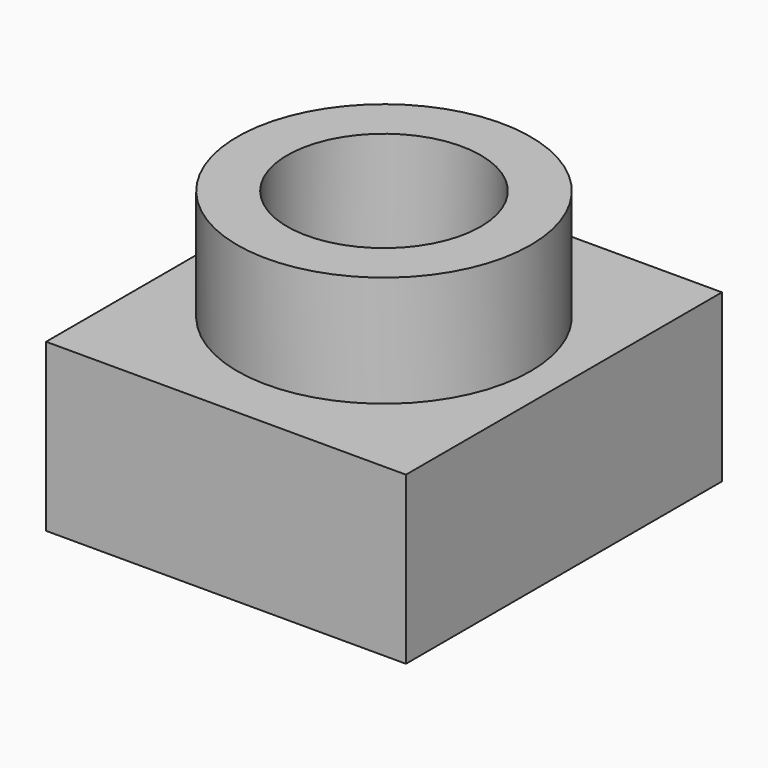
from build123d import *

# Parameters (mm, degrees)
F0_W      = 82.344018
F0_H      = 90.373024
F1_DEPTH  = 38.1
F2_R      = 33.560103
F2_R_2    = 22.134941
F3_DEPTH  = 25.4
F3_FACE_R = 22.134941
F4_DEPTH  = 127


with BuildPart() as f1:
    # F0 (on Top) → F1 (new body)
    with BuildSketch(Plane.XY):
        Rectangle(F0_W, F0_H)
    extrude(amount=F1_DEPTH)

    # F2 (on face) → F3 (join)
    with BuildSketch(Plane.XY.offset(38.1)):
        Circle(F2_R)
        Circle(F2_R_2, mode=Mode.SUBTRACT)
    extrude(amount=F3_DEPTH)

    # F3_face (on face) → F4 (cut)
    with BuildSketch(Plane.XY.offset(38.1)):
        Circle(F3_FACE_R)
    extrude(amount=-F4_DEPTH, mode=Mode.SUBTRACT)


solid = f1.part
